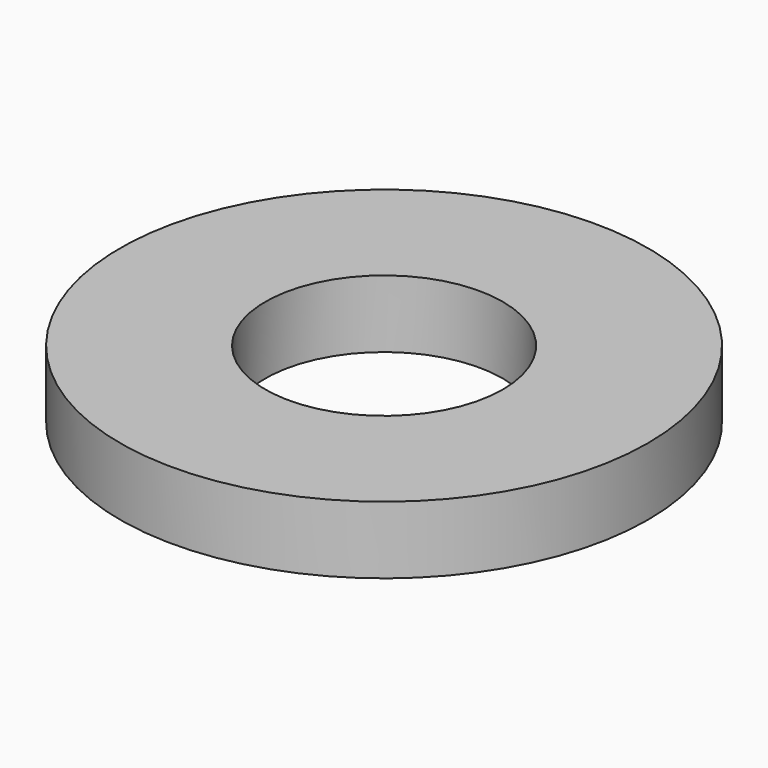
from build123d import *

# Parameters (mm, degrees)
SKETCH_R   = 7.9375
SKETCH_R_2 = 3.571875
PAD_DEPTH  = 2.03


with BuildPart() as part:
    # Sketch → Pad (new body)
    with BuildSketch(Plane.XY):
        Circle(SKETCH_R)
        Circle(SKETCH_R_2, mode=Mode.SUBTRACT)
    extrude(amount=PAD_DEPTH)


solid = part.part
